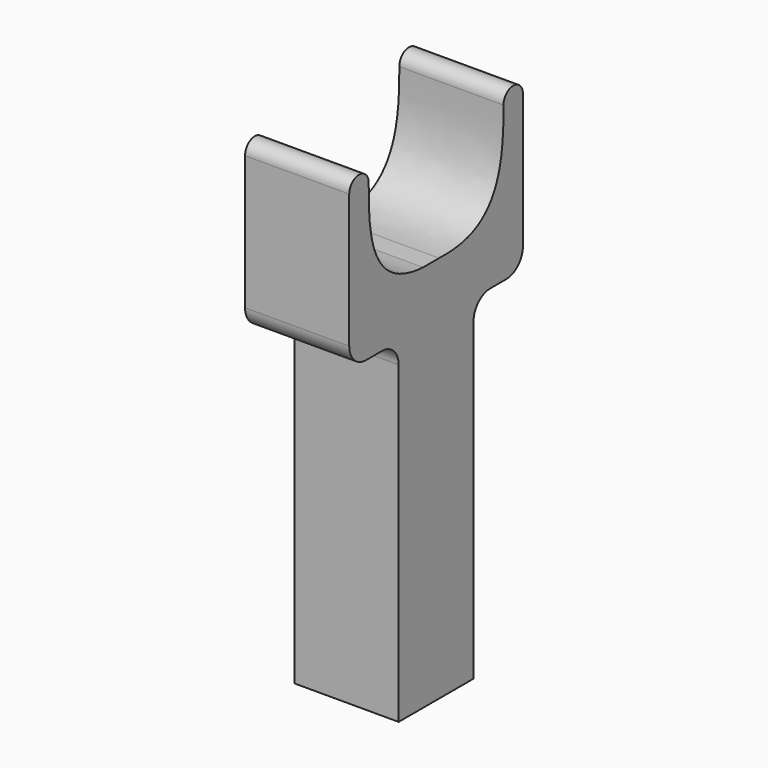
from build123d import *

# Parameters (mm, degrees)
F1_DEPTH = 31.75


with BuildPart() as f1:
    # F0 (on Right) → F1 (new body)
    with BuildSketch(Plane.YZ):
        with BuildLine():
            add(Edge.make_bspline(
                [(-31.946953, 44.640161), (-11.409624, 43.78444), (-7.131016, 56.049787), (-7.416258, 75.731389)],
                knots=[0, 0, 0, 0, 39.603276, 39.603276, 39.603276, 39.603276], degree=3))
            Line((-31.946953, 44.640161), (-38.027544, 44.640161))
            add(Edge.make_bspline(
                [(-58.759574, 75.731389), (-58.759574, 62.895566), (-58.759574, 45.781121), (-38.027544, 44.640161)],
                knots=[0, 0, 0, 0, 37.369527, 37.369527, 37.369527, 37.369527], degree=3))
            ThreePointArc((-58.759574, 75.731389), (-62.4677, 79.439515), (-66.175826, 75.731389))
            Line((-66.175826, 75.731389), (-66.175826, 34.93752))
            ThreePointArc((-66.175826, 34.93752), (-64.315954, 30.447392), (-59.825826, 28.58752))
            Line((-59.825826, 28.58752), (-53.699948, 28.58752))
            ThreePointArc((-53.699948, 28.58752), (-49.20982, 26.727648), (-47.349948, 22.23752))
            Line((-47.349948, 22.23752), (-47.349948, -73.536955))
            Line((-47.349948, -73.536955), (-18.825883, -73.536955))
            Line((-18.825883, -73.536955), (-18.825883, 22.23752))
            ThreePointArc((-18.825883, 22.23752), (-16.966011, 26.727648), (-12.475883, 28.58752))
            Line((-12.475883, 28.58752), (-6.35, 28.58752))
            ThreePointArc((-6.35, 28.58752), (-1.859872, 30.447392), (0, 34.93752))
            Line((0, 34.93752), (0, 75.731389))
            ThreePointArc((0, 75.731389), (-3.708129, 79.439518), (-7.416258, 75.731389))
        make_face()
    extrude(amount=F1_DEPTH)


solid = f1.part
